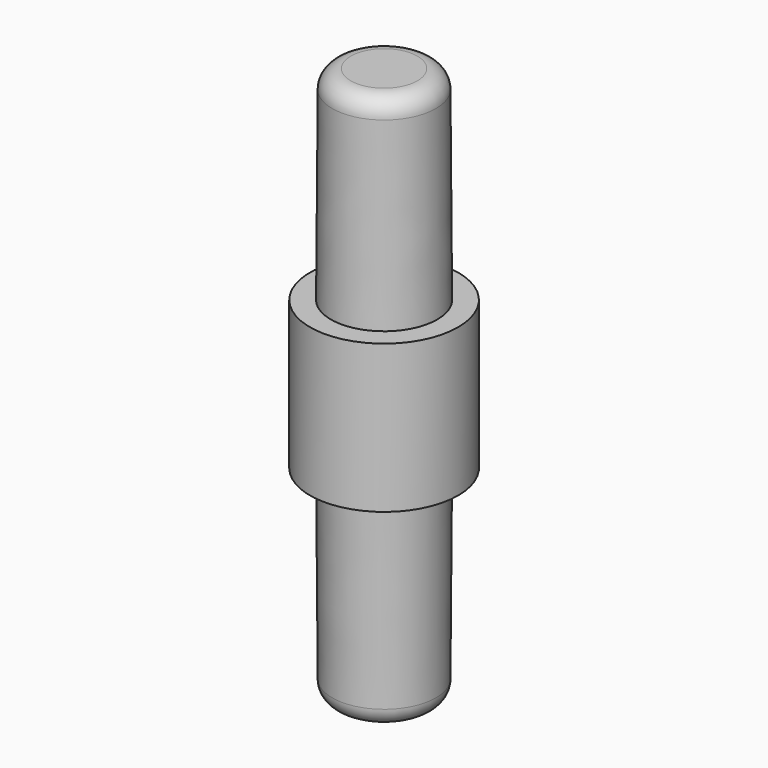
from build123d import *

# Parameters (mm, degrees)
F0_R     = 2.9
F1_DEPTH = 15
F1_TAPER = 0.4
F2_DEPTH = 15
F2_TAPER = 0.4
F0_R_2   = 4
F3_DEPTH = 4
F4_DEPTH = 4
F5_R     = 1
F6_R     = 2.1
F7_DEPTH = 4.2
F8_DEPTH = 2.8


with BuildPart() as f1:
    # F0 (on Top) → F1 (new body)
    with BuildSketch(Plane.XY):
        Circle(F0_R)
    extrude(amount=F1_DEPTH, taper=F1_TAPER)

    # F0 (on Top) → F2 (join)
    with BuildSketch(Plane.XY):
        Circle(F0_R)
    extrude(amount=-F2_DEPTH, taper=F2_TAPER)

    # F0 (on Top) → F3 (join)
    with BuildSketch(Plane.XY):
        Circle(F0_R_2)
        Circle(F0_R, mode=Mode.SUBTRACT)
        Circle(F0_R)
    extrude(amount=F3_DEPTH)

    # F0 (on Top) → F4 (join)
    with BuildSketch(Plane.XY):
        Circle(F0_R_2)
        Circle(F0_R, mode=Mode.SUBTRACT)
        Circle(F0_R)
    extrude(amount=-F4_DEPTH)

    # F5
    f5_edges = [f1.edges().sort_by_distance(p)[0] for p in [
        (-2.795279, 0, 15),
        (-2.795279, 0, -15),
    ]]
    fillet(f5_edges, radius=F5_R)

    # F6 (on Front) → F7 (cut)
    with BuildSketch(Plane.XZ):
        Circle(F6_R)
    extrude(amount=-F7_DEPTH, mode=Mode.SUBTRACT)

    # F6 (on Front) → F8 (cut)
    with BuildSketch(Plane.XZ):
        Circle(F6_R)
    extrude(amount=F8_DEPTH, mode=Mode.SUBTRACT)


solid = f1.part
